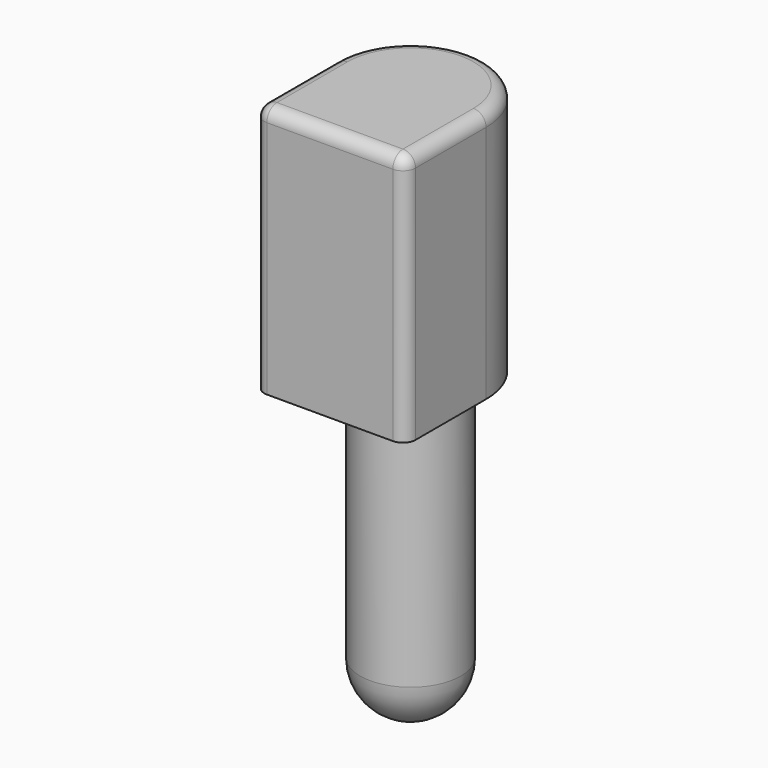
from build123d import *

# Parameters (mm, degrees)
F1_DEPTH = 25
F2_R     = 1.25
F3_R     = 5
F4_DEPTH = 30
F5_R     = 5


with BuildPart() as f1:
    # F0 (on Top) → F1 (new body)
    with BuildSketch(Plane.XY):
        with BuildLine():
            Line((-7.5, 0), (-7.5, -10))
            Line((-7.5, -10), (7.5, -10))
            Line((7.5, -10), (7.5, 0))
            ThreePointArc((7.5, 0), (0, 7.5), (-7.5, 0))
        make_face()
    extrude(amount=F1_DEPTH)

    # F2
    f2_edges = [f1.edges().sort_by_distance(p)[0] for p in [
        (7.5, -10, 12.5),
        (0, -10, 25),
        (7.5, -5, 25),
        (-7.5, -10, 12.5),
    ]]
    fillet(f2_edges, radius=F2_R)

    # F3 (on face) → F4 (join)
    with BuildSketch(Plane(origin=(0, 0, 0), x_dir=(1, 0, 0), z_dir=(0, 0, -1))):
        Circle(F3_R)
    extrude(amount=F4_DEPTH)

    # F5
    f5_edges = [f1.edges().sort_by_distance(p)[0] for p in [
        (-5, 0, -30),
    ]]
    fillet(f5_edges, radius=F5_R)


solid = f1.part
